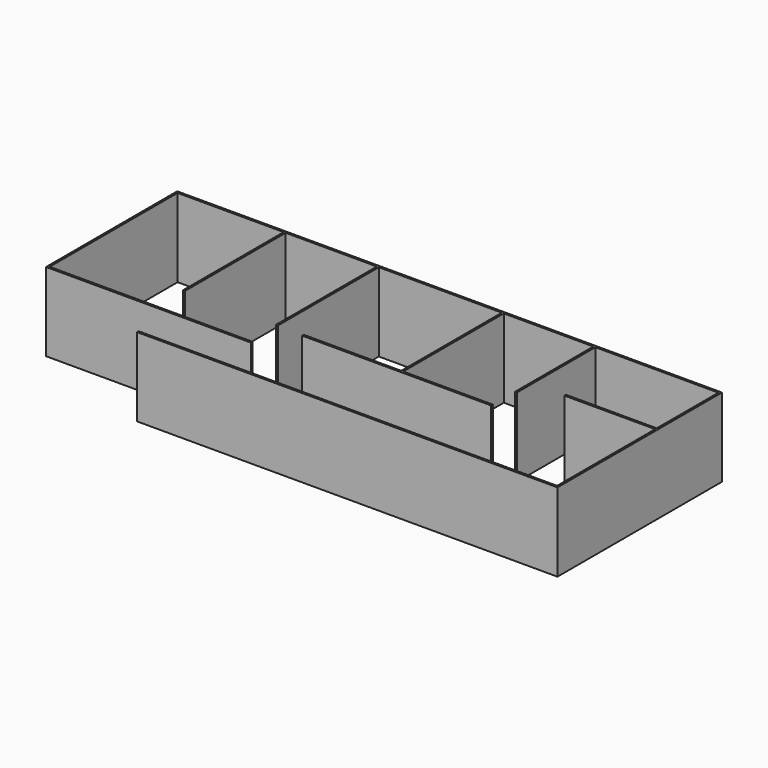
from build123d import *

# Parameters (mm, degrees)
F1_DEPTH = 2000


with BuildPart() as f1:
    # F0 (on Top) → F1 (new body)
    with BuildSketch(Plane.XY):
        Polygon((10650, 0), (0, 0), (0, -50), (10700, -50), (10700, 5180), (-3160, 5180), (-3160, 1010), (2050, 1010), (2050, 1060), (0, 1060), (-3110, 1060), (-3110, 5130), (-410, 5130), (-410, 1930), (-360, 1930), (-360, 5130), (1960, 5130), (1960, 1930), (2010, 1930), (2010, 5130), (5140, 5130), (5140, 1930), (2660, 1930), (2660, 1880), (7470, 1880), (7470, 1930), (5190, 1930), (5190, 5130), (7470, 5130), (7470, 2640), (7520, 2640), (7520, 5130), (10650, 5130), (10650, 3170), (8340, 3170), (8340, 3120), (10650, 3120), align=None)
    extrude(amount=-F1_DEPTH)


solid = f1.part
